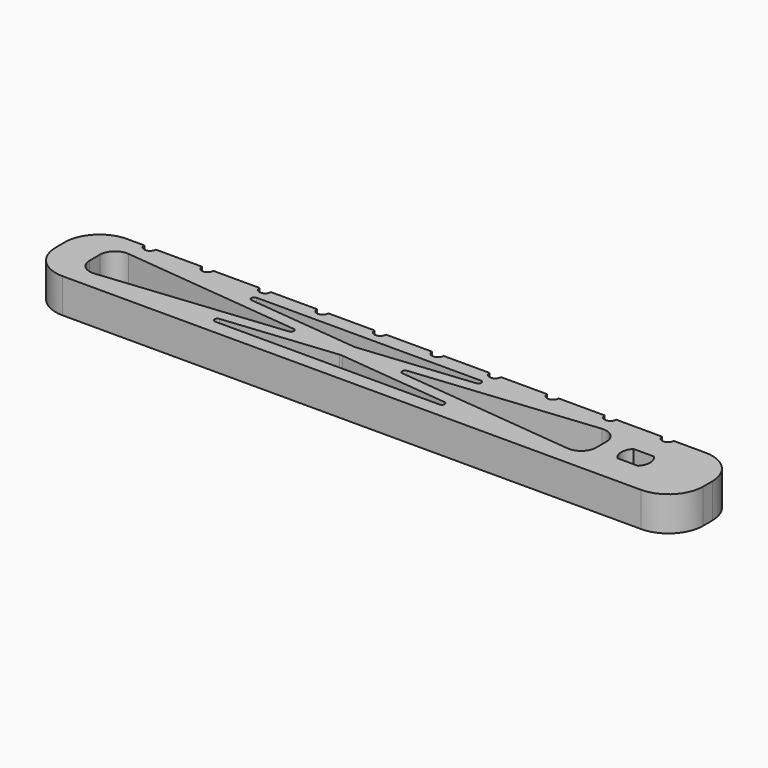
from build123d import *

# Parameters (mm, degrees)
F1_DEPTH = 6
F2_SIZE  = 1


with BuildPart() as f1:
    # F0 (on Top) → F1 (new body)
    with BuildSketch(Plane.XY):
        with BuildLine():
            Line((-91, 7), (-94, 7))
            ThreePointArc((-94, 7), (-98.242641, 5.242641), (-100, 1))
            Line((-100, 1), (-100, -1))
            ThreePointArc((-100, -1), (-98.242641, -5.242641), (-94, -7))
            Line((-94, -7), (6.5, -7))
            ThreePointArc((6.5, -7), (10.742641, -5.242641), (12.5, -1))
            Line((12.5, -1), (12.5, 1))
            ThreePointArc((12.5, 1), (10.742641, 5.242641), (6.5, 7))
            Line((6.5, 7), (1, 7))
            ThreePointArc((1, 7), (0, 6), (-1, 7))
            Line((-1, 7), (-9, 7))
            ThreePointArc((-9, 7), (-10, 6), (-11, 7))
            Line((-11, 7), (-19, 7))
            ThreePointArc((-19, 7), (-20, 6), (-21, 7))
            Line((-21, 7), (-29, 7))
            ThreePointArc((-29, 7), (-30, 6), (-31, 7))
            Line((-31, 7), (-39, 7))
            ThreePointArc((-39, 7), (-40, 6), (-41, 7))
            Line((-41, 7), (-49, 7))
            ThreePointArc((-49, 7), (-50, 6), (-51, 7))
            Line((-51, 7), (-59, 7))
            ThreePointArc((-59, 7), (-60, 6), (-61, 7))
            Line((-61, 7), (-69, 7))
            ThreePointArc((-69, 7), (-70, 6), (-71, 7))
            Line((-71, 7), (-79, 7))
            ThreePointArc((-79, 7), (-80, 6), (-81, 7))
            Line((-81, 7), (-89, 7))
            ThreePointArc((-89, 7), (-90, 6), (-91, 7))
        make_face()
        with BuildLine():
            ThreePointArc((-69.49713, -4.5), (-69.996478, -4.025541), (-69.548145, -3.502609))
            Line((-69.548145, -3.502609), (-50.287825, -1.527192))
            ThreePointArc((-50.287825, -1.527192), (-50.022703, -1.513624), (-49.75758, -1.527161))
            Line((-49.75758, -1.527161), (-30.474618, -3.502603))
            ThreePointArc((-30.474618, -3.502603), (-30.026225, -4.025511), (-30.525574, -4.5))
            Line((-30.525574, -4.5), (-69.49713, -4.5))
        make_face(mode=Mode.SUBTRACT)
        with BuildLine():
            Line((-94, -1.119694), (-94, 1.119694))
            ThreePointArc((-94, 1.119694), (-93.142166, 3.049683), (-91.134725, 3.706126))
            Line((-91.134725, 3.706126), (-59.84956, 0.497391))
            ThreePointArc((-59.84956, 0.497391), (-59.400574, 0), (-59.84956, -0.497391))
            Line((-59.84956, -0.497391), (-91.134725, -3.706126))
            ThreePointArc((-91.134725, -3.706126), (-93.142166, -3.049683), (-94, -1.119694))
        make_face(mode=Mode.SUBTRACT)
        with BuildLine():
            ThreePointArc((-69.548145, 3.502609), (-69.996478, 4.025541), (-69.49713, 4.5))
            Line((-69.49713, 4.5), (-30.525574, 4.5))
            ThreePointArc((-30.525574, 4.5), (-30.026225, 4.025511), (-30.474618, 3.502603))
            Line((-30.474618, 3.502603), (-49.75758, 1.527161))
            ThreePointArc((-49.75758, 1.527161), (-50.022703, 1.513624), (-50.287825, 1.527192))
            Line((-50.287825, 1.527192), (-69.548145, 3.502609))
        make_face(mode=Mode.SUBTRACT)
        with BuildLine():
            ThreePointArc((-40.15044, -0.497391), (-40.599426, 0), (-40.15044, 0.497391))
            Line((-40.15044, 0.497391), (-8.865275, 3.706126))
            ThreePointArc((-8.865275, 3.706126), (-6.857834, 3.049683), (-6, 1.119694))
            Line((-6, 1.119694), (-6, -1.119694))
            ThreePointArc((-6, -1.119694), (-6.857834, -3.049683), (-8.865275, -3.706126))
            Line((-8.865275, -3.706126), (-40.15044, -0.497391))
        make_face(mode=Mode.SUBTRACT)
        with BuildLine():
            ThreePointArc((-1.785357, -1.75), (-2.5, 0), (-1.785357, 1.75))
            Line((-1.785357, 1.75), (1.785357, 1.75))
            ThreePointArc((1.785357, 1.75), (2.5, 0), (1.785357, -1.75))
            Line((1.785357, -1.75), (-1.785357, -1.75))
        make_face(mode=Mode.SUBTRACT)
    extrude(amount=F1_DEPTH)

    # F2
    f2_edges = [f1.edges().sort_by_distance(p)[0] for p in [
        (0, 1.75, 0),
        (-2.5, 0, 0),
        (2.5, 0, 0),
        (0, -1.75, 0),
    ]]
    chamfer(f2_edges, length=F2_SIZE)


solid = f1.part
